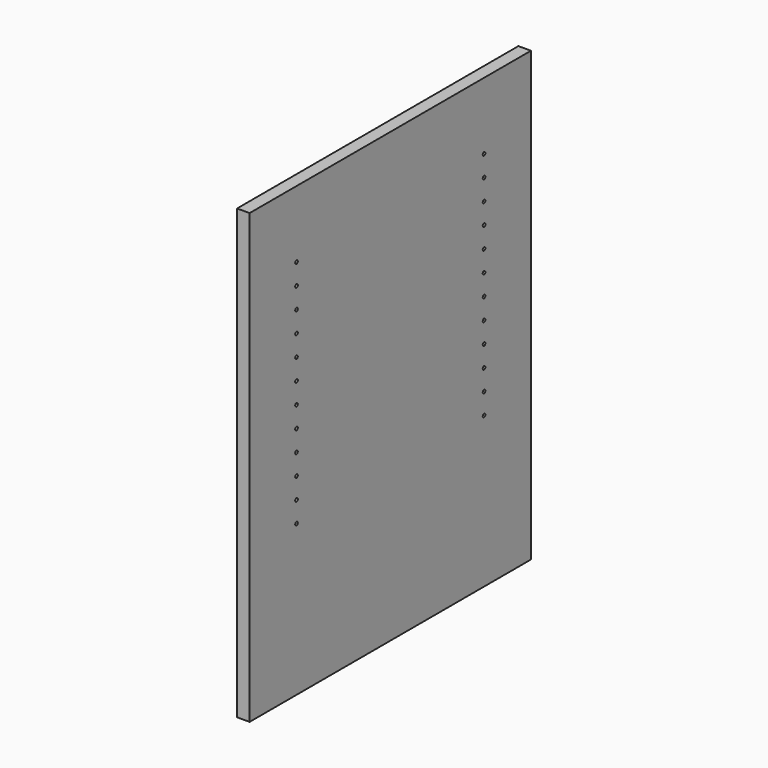
from build123d import *

# Parameters (mm, degrees)
F0_W     = 533.4
F0_H     = 679.45
F1_DEPTH = 19.05
F3_D     = 5.0038
F3_DEPTH = 14.224
F3_TIP   = 1.5032931827


with BuildPart() as f1:
    # F0 (on Right) → F1 (new body)
    with BuildSketch(Plane.YZ):
        Rectangle(F0_W, F0_H)
    extrude(amount=F1_DEPTH)

    # F3
    with Locations(Plane.YZ.offset(19.05)):
        with Locations((-177.8, 238.125), (-177.8, 206.375), (-177.8, 174.625), (-177.8, 142.875), (-177.8, 111.125), (-177.8, 79.375), (-177.8, 47.625), (-177.8, 15.875), (-177.8, -15.875), (-177.8, -47.625), (-177.8, -79.375), (-177.8, -111.125), (177.8, 238.125), (177.8, 206.375), (177.8, 174.625), (177.8, 142.875), (177.8, 111.125), (177.8, 79.375), (177.8, 47.625), (177.8, 15.875), (177.8, -15.875), (177.8, -47.625), (177.8, -79.375), (177.8, -111.125)):
            Hole(F3_D / 2, depth=F3_DEPTH)
            with Locations((0, 0, -(F3_DEPTH + F3_TIP / 2))):  # 118° drill point
                Cone(0, F3_D / 2, F3_TIP, mode=Mode.SUBTRACT)


solid = f1.part
